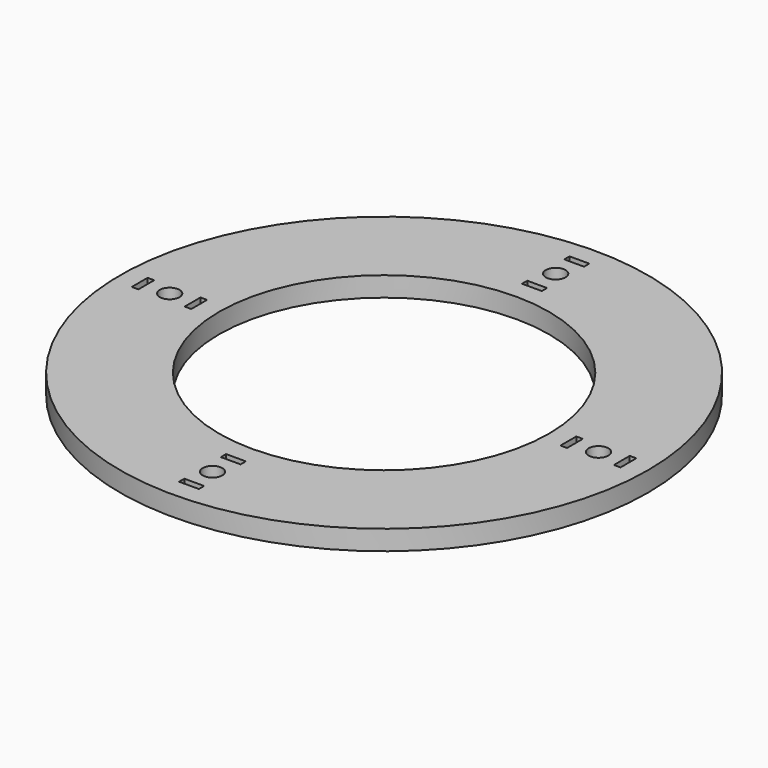
from build123d import *

# Parameters (mm, degrees)
F0_R     = 40
F0_R_2   = 1.5
F0_R_3   = 25
F1_DEPTH = 3


with BuildPart() as f1:
    # F0 (on Top) → F1 (new body)
    with BuildSketch(Plane.XY):
        Circle(F0_R)
        Polygon((1.419746, -28.955333), (-0.080254, -28.955333), (-1.580254, -28.955333), (-1.580254, -27.955333), (1.419746, -27.955333), align=None, mode=Mode.SUBTRACT)
        Polygon((-29.014116, -1.51), (-29.014116, -0.01), (-29.014116, 1.49), (-28.014116, 1.49), (-28.014116, -1.51), align=None, mode=Mode.SUBTRACT)
        Polygon((-1.5, -35.965448), (0, -35.965448), (1.5, -35.965448), (1.5, -36.965448), (-1.5, -36.965448), align=None, mode=Mode.SUBTRACT)
        with Locations((0, -32.5)):
            Circle(F0_R_2, mode=Mode.SUBTRACT)
        Polygon((28.958499, 1.457314), (28.958499, -0.042686), (28.958499, -1.542686), (27.958499, -1.542686), (27.958499, 1.457314), align=None, mode=Mode.SUBTRACT)
        Polygon((-36.050154, 1.510031), (-36.050154, 0.010031), (-36.050154, -1.489969), (-37.050154, -1.489969), (-37.050154, 1.510031), align=None, mode=Mode.SUBTRACT)
        with Locations((-32.5, 0)):
            Circle(F0_R_2, mode=Mode.SUBTRACT)
        Circle(F0_R_3, mode=Mode.SUBTRACT)
        with Locations((32.5, 0)):
            Circle(F0_R_2, mode=Mode.SUBTRACT)
        Polygon((36.007276, -1.479468), (36.007276, 0.020532), (36.007276, 1.520532), (37.007276, 1.520532), (37.007276, -1.479468), align=None, mode=Mode.SUBTRACT)
        Polygon((-1.5, 29), (0, 29), (1.5, 29), (1.5, 28), (-1.5, 28), align=None, mode=Mode.SUBTRACT)
        with Locations((0, 32.5)):
            Circle(F0_R_2, mode=Mode.SUBTRACT)
        Polygon((1.5, 36), (0, 36), (-1.5, 36), (-1.5, 37), (1.5, 37), align=None, mode=Mode.SUBTRACT)
    extrude(amount=F1_DEPTH)


solid = f1.part
